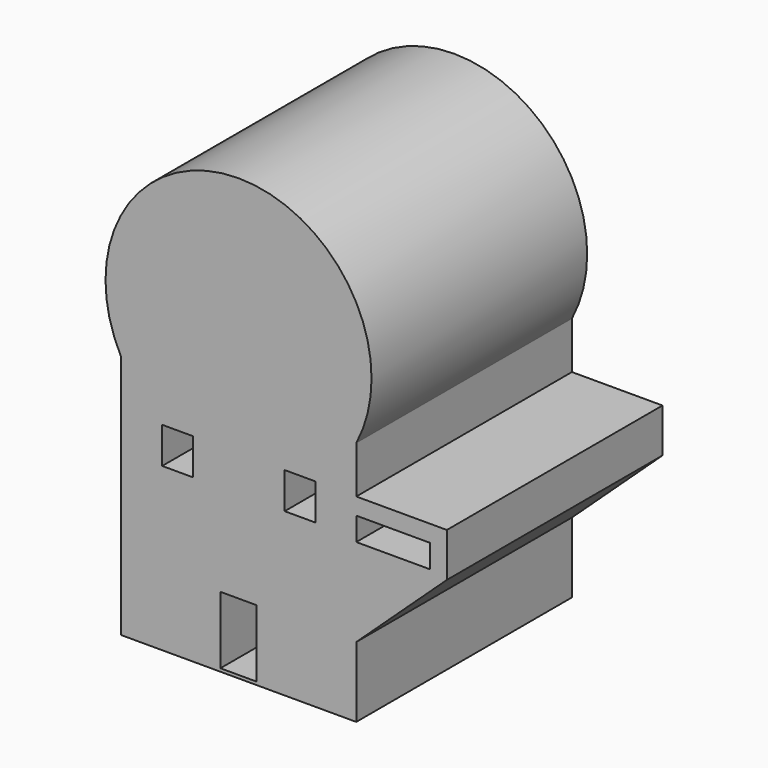
from build123d import *

# Parameters (mm, degrees)
F0_W     = 8.5344025865
F0_H     = 15.8495996147
F0_W_2   = 7.3151998222
F0_H_2   = 8.5343997926
F0_W_3   = 3.9624013007
F0_H_3   = 5.4863998666
F1_DEPTH = 63.5
F3_DEPTH = 6.096


with BuildPart() as f1:
    # F0 (on Front) → F1 (new body)
    with BuildSketch(Plane.XZ):
        Polygon((-27.7367997915, -28.918268159), (27.7367997915, -28.918268159), (27.7367997915, -12.3444003984), (27.7367997915, 8.3820000291), (27.7367997915, 13.8683998957), (27.7367997915, 17.8308002651), (27.7367997915, 28.918268159), (-27.7367997915, 28.918268159), align=None)
        with Locations((0, -20.2692002058)):
            Rectangle(F0_W, F0_H, mode=Mode.SUBTRACT)
        with Locations((-14.3256001174, 13.5636003688)):
            Rectangle(F0_W_2, F0_H_2, mode=Mode.SUBTRACT)
        with Locations((14.5287988707, 13.5636003688)):
            Rectangle(F0_W_2, F0_H_2, mode=Mode.SUBTRACT)
        Polygon((27.7367997915, 8.3820000291), (27.7367997915, -12.3444003984), (49.0728020668, 7.4676000513), (49.0728020668, 8.3820000291), (45.1104007661, 8.3820000291), (38.4048009291, 8.3820000291), (31.6991992295, 8.3820000291), align=None)
        with BuildLine():
            ThreePointArc((27.7367997915, 28.918268159), (0, 74.8298837074), (-27.7367997915, 28.918268159))
            Line((-27.7367997915, 28.918268159), (27.7367997915, 28.918268159))
        make_face()
        Polygon((27.7367997915, 17.8308002651), (27.7367997915, 13.8683998957), (31.6991992295, 13.8683998957), (38.4048009291, 13.8683998957), (45.1104007661, 13.8683998957), (49.0728020668, 13.8683998957), (49.0728020668, 17.8308002651), align=None)
        with Locations((47.0916014165, 11.1251999624)):
            Rectangle(F0_W_3, F0_H_3)
    extrude(amount=F1_DEPTH)


with BuildPart() as f3:
    # F2 (on Front) → F3 (new body)
    with BuildSketch(Plane.XZ):
        with BuildLine():
            ThreePointArc((-49.7505084084, 4.7874413024), (-45.4844049053, 7.3521477549), (-43.8095466134, 12.0395999402))
            ThreePointArc((-43.8095466134, 12.0395999402), (-44.0772117106, 14.0114299761), (-44.8608353551, 15.8405533395))
            Line((-44.8608353551, 15.8405533395), (-57.1406206075, 16.4553028988))
            ThreePointArc((-57.1406206075, 16.4553028988), (-58.112062238, 9.3890842408), (-52.6622891022, 4.7874413024))
            Line((-52.6622891022, 4.7874413024), (-49.7505084084, 4.7874413024))
        make_face()
        with BuildLine():
            Line((-57.1406206075, 16.4553028988), (-44.8608353551, 15.8405533395))
            ThreePointArc((-44.8608353551, 15.8405533395), (-46.7307388097, 17.9287331243), (-49.2433622803, 19.1712133206))
            ThreePointArc((-49.2433622803, 19.1712133206), (-53.6119383371, 19.034369481), (-57.1406206075, 16.4553028988))
        make_face()
        with BuildLine():
            ThreePointArc((-49.2433622803, 19.1712133206), (-46.7307388097, 17.9287331243), (-44.8608353551, 15.8405533395))
            ThreePointArc((-44.8608353551, 15.8405533395), (-41.1945518698, 20.800943518), (-41.1678089703, 26.9691191101))
            Line((-41.1678089703, 26.9691191101), (-59.603898109, 19.7336010308))
            ThreePointArc((-59.603898109, 19.7336010308), (-58.5434696845, 17.9658063908), (-57.1406206075, 16.4553028988))
            ThreePointArc((-57.1406206075, 16.4553028988), (-53.6119383371, 19.034369481), (-49.2433622803, 19.1712133206))
        make_face()
        with BuildLine():
            Line((-49.6824011207, 4.7874413024), (-49.7505084084, 4.7874413024))
            ThreePointArc((-49.7505084084, 4.7874413024), (-51.2063987553, 4.6427477983), (-52.6622891022, 4.7874413024))
            Line((-52.6622891022, 4.7874413024), (-52.6622891022, -3.5052001476))
            Line((-52.6622891022, -3.5052001476), (-52.6622891022, -6.5532000735))
            Line((-52.6622891022, -6.5532000735), (-52.6622891022, -19.0500002354))
            Line((-52.6622891022, -19.0500002354), (-52.6622891022, -23.3171992004))
            Line((-52.6622891022, -23.3171992004), (-49.6824011207, -23.3171992004))
            Line((-49.6824011207, -23.3171992004), (-49.6824011207, -19.0500002354))
            Line((-49.6824011207, -19.0500002354), (-49.6824011207, -6.5532000735))
            Line((-49.6824011207, -6.5532000735), (-49.6824011207, -3.5052001476))
            Line((-49.6824011207, -3.5052001476), (-49.6824011207, 4.7874413024))
        make_face()
        with BuildLine():
            ThreePointArc((-52.6622891022, 4.7874413024), (-51.2063987553, 4.6427477983), (-49.7505084084, 4.7874413024))
            Line((-49.7505084084, 4.7874413024), (-52.6622891022, 4.7874413024))
        make_face()
        with BuildLine():
            Line((-59.603898109, 19.7336010308), (-41.1678089703, 26.9691191101))
            ThreePointArc((-41.1678089703, 26.9691191101), (-42.0310103091, 28.907815409), (-43.2867587174, 30.61859179))
            Line((-43.2867587174, 30.61859179), (-60.5331154133, 23.9259169849))
            ThreePointArc((-60.5331154133, 23.9259169849), (-60.2980259457, 21.7788866021), (-59.603898109, 19.7336010308))
        make_face()
        with BuildLine():
            Line((-60.5331154133, 23.9259169849), (-43.2867587174, 30.61859179))
            ThreePointArc((-43.2867587174, 30.61859179), (-44.9000278759, 32.039012776), (-46.7813509421, 33.0786553472))
            Line((-46.7813509421, 33.0786553472), (-59.6127105669, 28.0992780334))
            ThreePointArc((-59.6127105669, 28.0992780334), (-60.3002822656, 26.0627421721), (-60.5331154133, 23.9259169849))
        make_face()
        Polygon((-52.6622891022, -6.5532000735), (-52.6622891022, -3.5052001476), (-61.0028546961, 4.7874413024), align=None)
        Polygon((-40.2257950144, 4.7874413024), (-49.6824011207, -3.5052001476), (-49.6824011207, -6.5532000735), align=None)
        with BuildLine():
            Line((-59.6127105669, 28.0992780334), (-46.7813509421, 33.0786553472))
            ThreePointArc((-46.7813509421, 33.0786553472), (-54.2008191091, 33.1756293497), (-59.6127105669, 28.0992780334))
        make_face()
        Polygon((-52.6622891022, -23.3171992004), (-52.6622891022, -19.0500002354), (-64.9474813362, -34.0902707651), align=None)
        Polygon((-38.3410298295, -36.2504583617), (-49.6824011207, -19.0500002354), (-49.6824011207, -23.3171992004), align=None)
    extrude(amount=F3_DEPTH)


solid = Compound([f1.part, f3.part])
